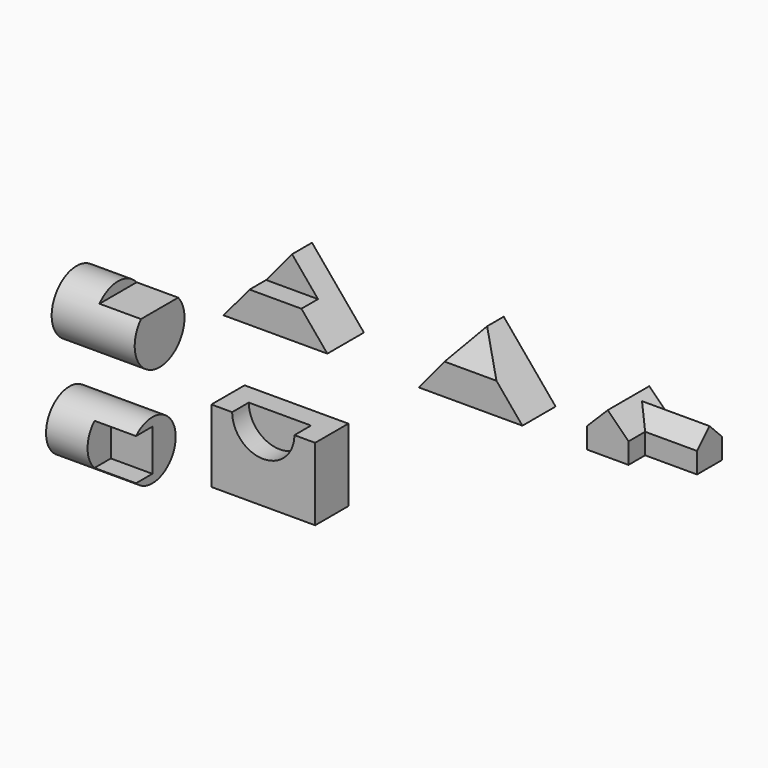
from build123d import *

# Parameters (mm, degrees)
F1_DEPTH  = 111.76
F3_DEPTH  = 50.8
F5_DEPTH  = 101.6
F9_DEPTH  = 76.2
F11_DEPTH = 127
F15_R     = 76.2
F16_DEPTH = 203.2
F18_DEPTH = 101.6
F19_R     = 71.3636690174
F20_DEPTH = 203.2
F22_DEPTH = 101.6
F23_W     = 254
F23_H     = 177.8
F24_DEPTH = 101.6
F26_DEPTH = 50.8


with BuildPart() as f1:
    # F0 (on Front) → F1 (new body)
    with BuildSketch(Plane.XZ):
        Polygon((127, 152.4), (0, 0), (254, 0), align=None)
    extrude(amount=-F1_DEPTH)

    # F2 (on face) → F3 (cut)
    with BuildSketch(Plane.XZ):
        Polygon((127, 152.4), (63.5, 76.2), (190.5, 76.2), align=None)
    extrude(amount=-F3_DEPTH, mode=Mode.SUBTRACT)


with BuildPart() as f5:
    # F4 (on Front) → F5 (new body)
    with BuildSketch(Plane.XZ):
        Polygon((604.4379685921, 152.4), (477.4379685921, 0), (731.4379685921, 0), align=None)
    extrude(amount=-F5_DEPTH)

    # F8 (on 3pt) → F9 (cut, symmetric)
    with BuildSketch(Plane.YZ.offset(604.4379685921)):
        Polygon((0, 152.4), (0, 76.2), (50.8, 152.4), align=None)
    extrude(amount=F9_DEPTH, both=True, mode=Mode.SUBTRACT)


with BuildPart() as f11:
    # F10 (on Front) → F11 (new body)
    with BuildSketch(Plane.XZ):
        Polygon((889.6409869194, 50.8), (889.6409869194, 0), (991.2409869194, 0), (991.2409869194, 50.8), (940.4409869194, 101.6), align=None)
    extrude(amount=-F11_DEPTH)

    # F13 (on offset) → F14 (join, up to the next surface of F11)
    with BuildSketch(Plane.YZ.offset(1118.2409869194)):
        Polygon((50.8, 50.8), (50.8, 0), (127, 0), (127, 50.8), (88.9, 88.9), align=None)
    extrude(until=Until.NEXT, dir=(-1, 0, 0))


with BuildPart() as f16:
    # F15 (on Right) → F16 (new body)
    with BuildSketch(Plane.YZ):
        with Locations((-195.8975046873, 44.0055020154)):
            Circle(F15_R)
    extrude(amount=-F16_DEPTH)

    # F17 (on face) → F18 (cut)
    with BuildSketch(Plane.YZ):
        with BuildLine():
            Line((-200.0606060028, 120.091693847), (-200.0606060028, 94.691693847))
            Line((-200.0606060028, 94.691693847), (-138.9997898157, 94.691693847))
            ThreePointArc((-138.9997898157, 94.691693847), (-166.6310585975, 114.3611352885), (-200.0606060028, 120.091693847))
        make_face()
        with BuildLine():
            ThreePointArc((-200.0606060028, 120.091693847), (-228.964040919, 112.657116575), (-252.7952195589, 94.691693847))
            Line((-252.7952195589, 94.691693847), (-200.0606060028, 94.691693847))
            Line((-200.0606060028, 94.691693847), (-200.0606060028, 120.091693847))
        make_face()
    extrude(amount=-F18_DEPTH, mode=Mode.SUBTRACT)


with BuildPart() as f20:
    # F19 (on Right) → F20 (new body)
    with BuildSketch(Plane.YZ):
        with Locations((-217.96913445, -202.0709067583)):
            Circle(F19_R)
    extrude(amount=-F20_DEPTH)

    # F21 (on face) → F22 (cut)
    with BuildSketch(Plane.YZ):
        with BuildLine():
            Line((-217.96913445, -252.8709067583), (-217.96913445, -202.0709067583))
            Line((-217.96913445, -202.0709067583), (-217.96913445, -151.2709067583))
            Line((-217.96913445, -151.2709067583), (-268.0903201465, -151.2709067583))
            ThreePointArc((-268.0903201465, -151.2709067583), (-289.3328034673, -202.0709067583), (-268.0903201465, -252.8709067583))
            Line((-268.0903201465, -252.8709067583), (-217.96913445, -252.8709067583))
        make_face()
    extrude(amount=-F22_DEPTH, mode=Mode.SUBTRACT)


with BuildPart() as f24:
    # F23 (on Front) → F24 (new body)
    with BuildSketch(Plane.XZ):
        with Locations((178.4016042948, -222.9919228326)):
            Rectangle(F23_W, F23_H)
    extrude(amount=F24_DEPTH)

    # F25 (on face) → F26 (cut)
    with BuildSketch(Plane.XZ.offset(101.6)):
        with BuildLine():
            Line((102.2016042948, -134.0919228326), (254.6016042948, -134.0919228326))
            ThreePointArc((254.6016042948, -134.0919228326), (178.4016042948, -57.8919228326), (102.2016042948, -134.0919228326))
        make_face()
        with BuildLine():
            ThreePointArc((102.2016042948, -134.0919228326), (178.4016042948, -210.2919228326), (254.6016042948, -134.0919228326))
            Line((254.6016042948, -134.0919228326), (102.2016042948, -134.0919228326))
        make_face()
    extrude(amount=-F26_DEPTH, mode=Mode.SUBTRACT)


solid = Compound([f1.part, f5.part, f11.part, f16.part, f20.part, f24.part])
